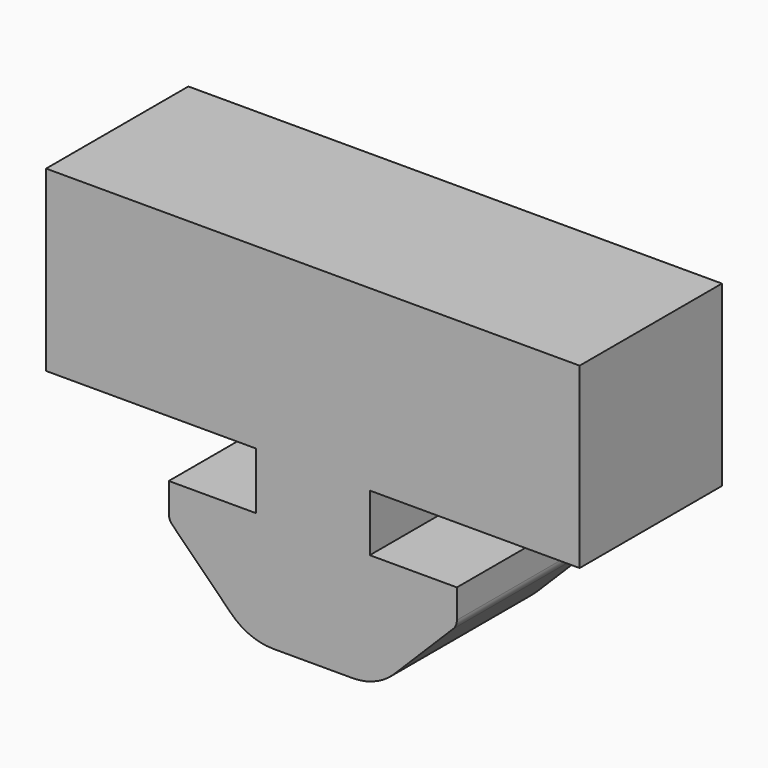
from build123d import *

# Parameters (mm, degrees)
F1_DEPTH = 12.7


with BuildPart() as f1:
    # F0 (on Front) → F1 (new body)
    with BuildSketch(Plane.XZ):
        with BuildLine():
            Line((-37.758274, 30.845503), (-37.758274, 18.12182))
            Line((-37.758274, 18.12182), (-22.772274, 18.12182))
            Line((-22.772274, 18.12182), (-22.772274, 14.05782))
            Line((-22.772274, 14.05782), (-28.995274, 14.05782))
            Line((-28.995274, 14.05782), (-28.995274, 12.000356))
            ThreePointArc((-28.995274, 12.000356), (-28.927603, 11.66015), (-28.734892, 11.371738))
            Line((-28.734892, 11.371738), (-24.533136, 7.169983))
            ThreePointArc((-24.533136, 7.169983), (-23.159469, 6.252128), (-21.539119, 5.92982))
            Line((-21.539119, 5.92982), (-15.877428, 5.92982))
            ThreePointArc((-15.877428, 5.92982), (-14.257078, 6.252128), (-12.883411, 7.169983))
            Line((-12.883411, 7.169983), (-8.681656, 11.371738))
            ThreePointArc((-8.681656, 11.371738), (-8.488945, 11.66015), (-8.421274, 12.000356))
            Line((-8.421274, 12.000356), (-8.421274, 14.05782))
            Line((-8.421274, 14.05782), (-14.644274, 14.05782))
            Line((-14.644274, 14.05782), (-14.644274, 18.12182))
            Line((-14.644274, 18.12182), (0.341726, 18.12182))
            Line((0.341726, 18.12182), (0.341726, 30.845503))
            Line((0.341726, 30.845503), (-37.758274, 30.845503))
        make_face()
    extrude(amount=F1_DEPTH)


solid = f1.part
